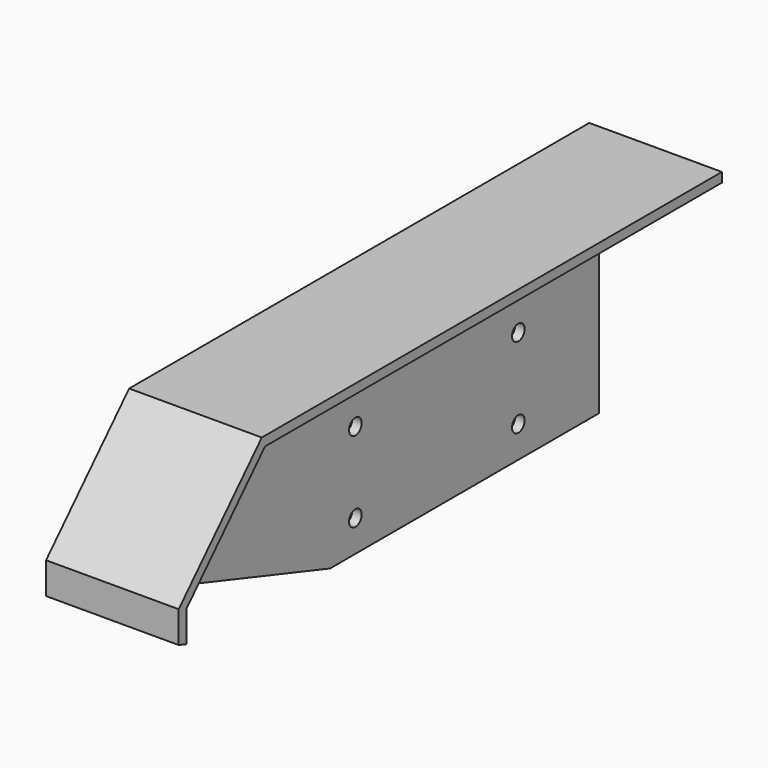
from build123d import *

# Parameters (mm, degrees)
F0_R     = 2.5
F1_DEPTH = 3
F3_DEPTH = 39


with BuildPart() as f1:
    # F0 (on Right) → F1 (new body)
    with BuildSketch(Plane.YZ):
        Polygon((-107.5, -4.5), (1.17, -40), (107.5, -40), (107.5, 40), (-74.625254, 40), (-107.5, 5.5), align=None)
        with Locations((11.17, -30)):
            Circle(F0_R, mode=Mode.SUBTRACT)
        with Locations((75.67, -30)):
            Circle(F0_R, mode=Mode.SUBTRACT)
        with Locations((11.17, -4.5)):
            Circle(F0_R, mode=Mode.SUBTRACT)
        with Locations((75.67, -4.5)):
            Circle(F0_R, mode=Mode.SUBTRACT)
        with Locations((11.17, 21)):
            Circle(F0_R, mode=Mode.SUBTRACT)
        with Locations((75.67, 21)):
            Circle(F0_R, mode=Mode.SUBTRACT)
    extrude(amount=F1_DEPTH)

    # F2 (on face) → F3 (join)
    with BuildSketch(Plane.YZ.offset(3)):
        Polygon((-73.340015, 37), (107.5, 37), (107.5, 40), (-74.625254, 40), (-107.5, 5.5), (-107.5, -4.5), (-104.5, -5.480031), (-104.5, -4.5), (-104.5, 4.299535), align=None)
    extrude(amount=F3_DEPTH)


solid = f1.part
